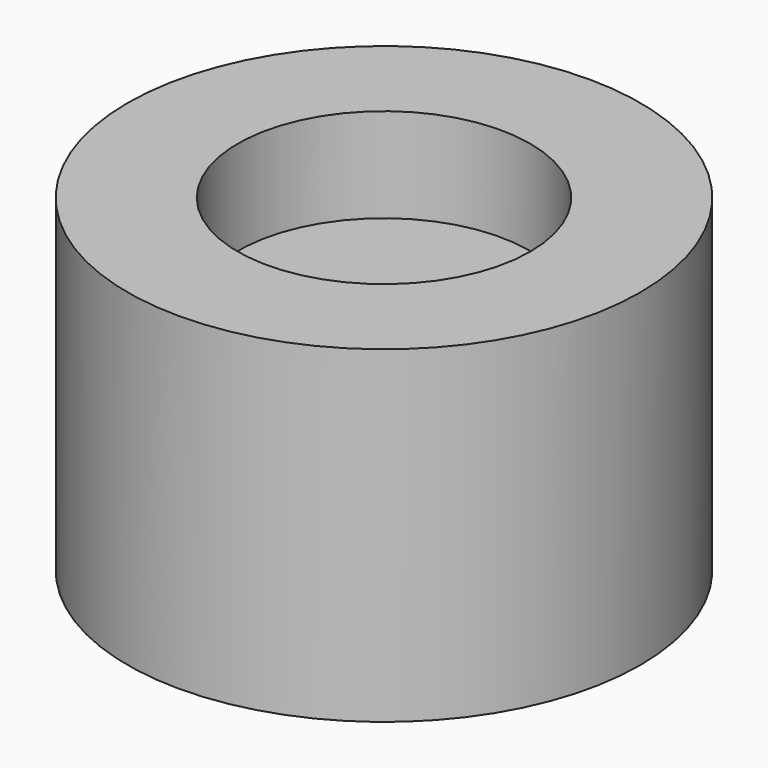
from build123d import *

# Parameters (mm, degrees)
F0_R        = 50.8
F0_R_2      = 39.624
F1_DEPTH    = 88.9
F2_R        = 39.37
F2_R_2      = 5.500002
F3_DEPTH    = 38.354
F3_FACE_R   = 39.37
F3_FACE_R_2 = 5.500002
F4_DEPTH    = 25.4
F5_R        = 69.469
F5_R_2      = 50.8
F6_DEPTH    = 88.9


with BuildPart() as f1:
    # F0 (on Top) → F1 (new body)
    with BuildSketch(Plane.XY):
        Circle(F0_R)
        Circle(F0_R_2, mode=Mode.SUBTRACT)
    extrude(amount=F1_DEPTH)

    # F5 (on face) → F6 (join)
    with BuildSketch(Plane.XY.offset(88.9)):
        Circle(F5_R)
        Circle(F5_R_2, mode=Mode.SUBTRACT)
    extrude(amount=-F6_DEPTH)


with BuildPart() as f3:
    # F2 (on face) → F3 (new body)
    with BuildSketch(Plane.XY.offset(88.9)):
        Circle(F2_R)
        Circle(F2_R_2, mode=Mode.SUBTRACT)
    extrude(amount=-F3_DEPTH)

    # F3_face (on face) → F4 (cut)
    with BuildSketch(Plane.XY.offset(88.9)):
        Circle(F3_FACE_R)
        Circle(F3_FACE_R_2, mode=Mode.SUBTRACT)
    extrude(amount=-F4_DEPTH, mode=Mode.SUBTRACT)


solid = Compound([f1.part, f3.part])
